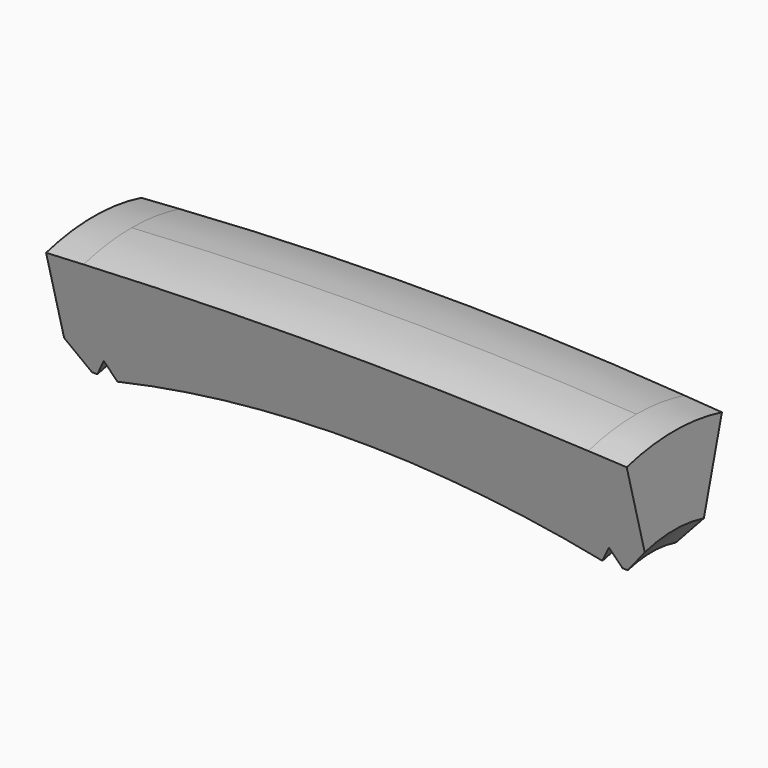
from build123d import *

# Parameters (mm, degrees)
F1_ANGLE = 30


with BuildPart() as f1:
    # F0 (on Front) → F1 (revolve, symmetric)
    with BuildSketch(Plane.XZ) as f1_sk:
        with BuildLine():
            Line((-43.460058, 40), (-50, 39.6))
            Line((-50, 39.6), (-50, 24.6))
            Line((-50, 24.6), (-46.14, 20))
            Line((-46.14, 20), (-45.232051, 20))
            Line((-45.232051, 20), (-43.5, 23))
            Line((-43.5, 23), (-41.767949, 20))
            ThreePointArc((-41.767949, 20), (0, 25.547941), (41.767949, 20))
            Line((41.767949, 20), (43.5, 23))
            Line((43.5, 23), (45.232051, 20))
            Line((45.232051, 20), (46.14, 20))
            Line((46.14, 20), (50, 24.6))
            Line((50, 24.6), (50, 39.6))
            Line((50, 39.6), (43.460058, 40))
            ThreePointArc((43.460058, 40), (0, 41.327825), (-43.460058, 40))
        make_face()
    revolve(axis=Axis((-2.4375, 0, 0), (1, 0, 0)), revolution_arc=F1_ANGLE / 2)
    revolve(f1_sk.sketch, axis=Axis((-2.4375, 0, 0), (-1, 0, 0)), revolution_arc=F1_ANGLE / 2)


solid = f1.part
